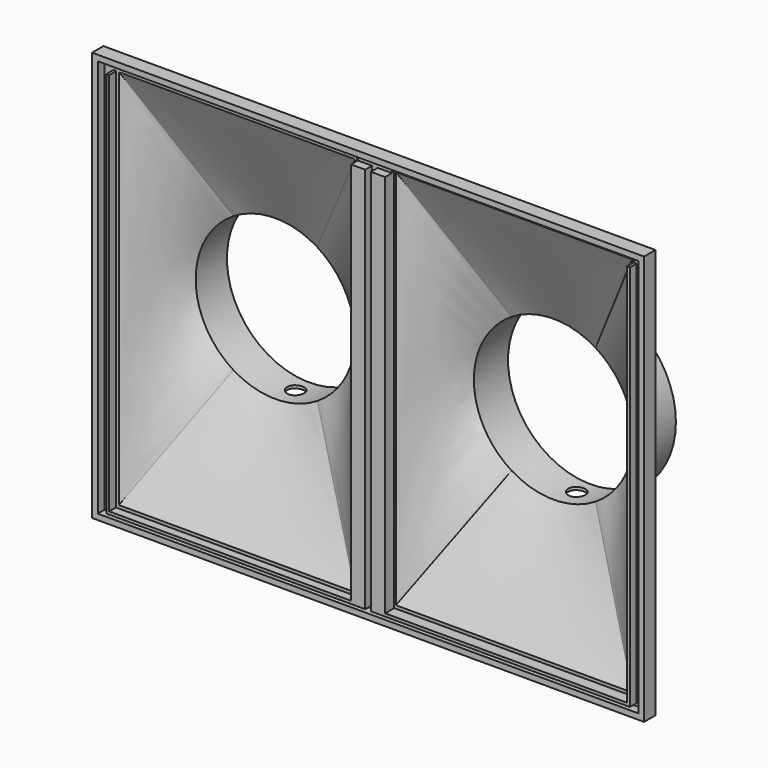
from build123d import *

# Parameters (mm, degrees)
SKETCH015_AS_DRAWN_R                 = 3
EXTRUDE011_DEPTH                     = 80
EXTRUDE011_ONTO_SKETCH015_ROLL_ANGLE = 90
SKETCH014_R                          = 30
SKETCH014_R_2                        = 29
EXTRUDE010_DEPTH                     = 15
CUT005_ROLL_ANGLE                    = 90
SKETCH013_AS_DRAWN_R                 = 3
EXTRUDE009_DEPTH                     = 80
EXTRUDE009_ONTO_SKETCH013_ROLL_ANGLE = 90
SKETCH012_R                          = 30
SKETCH012_R_2                        = 29
EXTRUDE008_DEPTH                     = 15
CUT004_ROLL_ANGLE                    = 90
SKETCH019_R                          = 28
SKETCH029_W                          = 83
SKETCH029_H                          = 134
SKETCH022_R                          = 30
SKETCH020_W                          = 85
SKETCH020_H                          = 136
SKETCH030_W                          = 83
SKETCH030_H                          = 134
SKETCH016_R                          = 30
SKETCH010_W                          = 85
SKETCH010_H                          = 136
SKETCH006_AS_DRAWN_W                 = 190
SKETCH006_AS_DRAWN_H                 = 140
SKETCH006_AS_DRAWN_W_2               = 91
SKETCH006_AS_DRAWN_H_2               = 136
EXTRUDE007_DEPTH                     = 100
EXTRUDE007_ONTO_SKETCH006_ROLL_ANGLE = 90
SKETCH009_AS_DRAWN_W                 = 194
SKETCH009_AS_DRAWN_H                 = 144
SKETCH009_AS_DRAWN_W_2               = 85
SKETCH009_AS_DRAWN_H_2               = 136
EXTRUDE012_DEPTH                     = 5
EXTRUDE012_ONTO_SKETCH009_ROLL_ANGLE = 90


with BuildPart() as extrude011:
    # Sketch015 as drawn → Extrude011 (new)
    with BuildSketch(Plane.XY):
        with Locations((0, 1)):
            Circle(SKETCH015_AS_DRAWN_R)
    extrude(amount=EXTRUDE011_DEPTH)


with BuildPart() as extrude011_1:
    # Extrude011 onto Sketch015 roll: moved
    add(extrude011.part.rotate(Axis((0, 0, 0), (1, 0, 0)), EXTRUDE011_ONTO_SKETCH015_ROLL_ANGLE))


with BuildPart() as extrude011_2:
    # Extrude011 onto Sketch015 placement: moved
    add(extrude011_1.part)


with BuildPart() as extrude011_3:
    # Extrude011 placement: moved
    add(extrude011_2.part.moved(Location((0, 40, -85))))


with BuildPart() as obj1:
    # Sketch014 → Extrude010 (new body)
    with BuildSketch(Plane.XY):
        Circle(SKETCH014_R)
        Circle(SKETCH014_R_2, mode=Mode.SUBTRACT)
    extrude(amount=EXTRUDE010_DEPTH)


with BuildPart() as obj1_1:
    # Extrude010 placement: moved
    add(obj1.part.moved(Location((0, 0, -90))))

    # Cut005: cut Extrude011
    add(extrude011_3.part, mode=Mode.SUBTRACT)


with BuildPart() as obj1_2:
    # Cut005 roll: moved
    add(obj1_1.part.rotate(Axis((0, 0, 0), (1, 0, 0)), CUT005_ROLL_ANGLE))


with BuildPart() as obj1_3:
    # Cut005 placement: moved
    add(obj1_2.part.moved(Location((146, -151, -75))))


with BuildPart() as extrude009:
    # Sketch013 as drawn → Extrude009 (new)
    with BuildSketch(Plane.XY):
        with Locations((0, 1)):
            Circle(SKETCH013_AS_DRAWN_R)
    extrude(amount=EXTRUDE009_DEPTH)


with BuildPart() as extrude009_1:
    # Extrude009 onto Sketch013 roll: moved
    add(extrude009.part.rotate(Axis((0, 0, 0), (1, 0, 0)), EXTRUDE009_ONTO_SKETCH013_ROLL_ANGLE))


with BuildPart() as extrude009_2:
    # Extrude009 onto Sketch013 placement: moved
    add(extrude009_1.part)


with BuildPart() as extrude009_3:
    # Extrude009 placement: moved
    add(extrude009_2.part.moved(Location((0, 39, -80))))


with BuildPart() as obj2:
    # Sketch012 → Extrude008 (new body)
    with BuildSketch(Plane.XY):
        Circle(SKETCH012_R)
        Circle(SKETCH012_R_2, mode=Mode.SUBTRACT)
    extrude(amount=EXTRUDE008_DEPTH)


with BuildPart() as obj2_1:
    # Extrude008 placement: moved
    add(obj2.part.moved(Location((0, 0, -85))))

    # Cut004: cut Extrude009
    add(extrude009_3.part, mode=Mode.SUBTRACT)


with BuildPart() as obj2_2:
    # Cut004 roll: moved
    add(obj2_1.part.rotate(Axis((0, 0, 0), (1, 0, 0)), CUT004_ROLL_ANGLE))


with BuildPart() as obj2_3:
    # Cut004 placement: moved
    add(obj2_2.part.moved(Location((48, -147, -75))))


with BuildPart() as loft003:
    # Sketch019 → Loft003 section 0
    with BuildSketch(Plane.XZ):
        with Locations((50, -75)):
            Circle(SKETCH019_R)
    # Sketch029 → Loft003 section 1
    with BuildSketch(Plane.XZ.offset(20)):
        with Locations((52.070605, -73.338478)):
            Rectangle(SKETCH029_W, SKETCH029_H)
    loft()


with BuildPart() as loft003_1:
    # Loft003 placement: moved
    add(loft003.part.moved(Location((-1, 0, 0))))


with BuildPart() as obj3:
    # Sketch022 → Loft002 section 0
    with BuildSketch(Plane.XZ):
        with Locations((50, -75)):
            Circle(SKETCH022_R)
    # Sketch020 → Loft002 section 1
    with BuildSketch(Plane.XZ.offset(20)):
        with Locations((51.171679, -73.419239)):
            Rectangle(SKETCH020_W, SKETCH020_H)
    loft()

    # Cut007: cut Loft003
    add(loft003_1.part, mode=Mode.SUBTRACT)


with BuildPart() as obj3_1:
    # Cut007 placement: moved
    add(obj3.part.moved(Location((96, -76, 0))))


with BuildPart() as loft001:
    # Sketch030 → Loft001 section 0
    with BuildSketch(Plane(origin=(-121, -20, 0), x_dir=(1, 0, 0), z_dir=(0, -1, 0))):
        with Locations((173.527864, -73.338478)):
            Rectangle(SKETCH030_W, SKETCH030_H)
    # Sketch019 → Loft001 section 1
    with BuildSketch(Plane.XZ):
        with Locations((50, -75)):
            Circle(SKETCH019_R)
    loft()


with BuildPart() as obj4:
    # Sketch016 → Loft section 0
    with BuildSketch(Plane.XZ):
        with Locations((50, -75)):
            Circle(SKETCH016_R)
    # Sketch010 → Loft section 1
    with BuildSketch(Plane.XZ.offset(20)):
        with Locations((52.151366, -73.419239)):
            Rectangle(SKETCH010_W, SKETCH010_H)
    loft()

    # Cut006: cut Loft001
    add(loft001.part, mode=Mode.SUBTRACT)


with BuildPart() as obj4_1:
    # Cut006 placement: moved
    add(obj4.part.moved(Location((-2, -77, 0))))


with BuildPart() as obj5:
    # Sketch006 as drawn → Extrude007 (new)
    with BuildSketch(Plane.XY):
        with Locations((100, -75)):
            Rectangle(SKETCH006_AS_DRAWN_W, SKETCH006_AS_DRAWN_H)
        with Locations((53.5, -76)):
            Rectangle(SKETCH006_AS_DRAWN_W_2, SKETCH006_AS_DRAWN_H_2, mode=Mode.SUBTRACT)
        with Locations((146.5, -76)):
            Rectangle(SKETCH006_AS_DRAWN_W_2, SKETCH006_AS_DRAWN_H_2, mode=Mode.SUBTRACT)
    extrude(amount=EXTRUDE007_DEPTH)


with BuildPart() as obj5_1:
    # Extrude007 onto Sketch006 roll: moved
    add(obj5.part.rotate(Axis((0, 0, 0), (1, 0, 0)), EXTRUDE007_ONTO_SKETCH006_ROLL_ANGLE))


with BuildPart() as obj5_2:
    # Extrude007 onto Sketch006 placement: moved
    add(obj5_1.part)


with BuildPart() as obj5_3:
    # Extrude007 placement: moved
    add(obj5_2.part.moved(Location((-1, -97, 1))))


with BuildPart() as obj6:
    # Sketch009 as drawn → Extrude012 (new)
    with BuildSketch(Plane.XY):
        with Locations((99, -74)):
            Rectangle(SKETCH009_AS_DRAWN_W, SKETCH009_AS_DRAWN_H)
        with Locations((50.5, -74)):
            Rectangle(SKETCH009_AS_DRAWN_W_2, SKETCH009_AS_DRAWN_H_2, mode=Mode.SUBTRACT)
        with Locations((147.5, -74)):
            Rectangle(SKETCH009_AS_DRAWN_W_2, SKETCH009_AS_DRAWN_H_2, mode=Mode.SUBTRACT)
    extrude(amount=EXTRUDE012_DEPTH)


with BuildPart() as obj6_1:
    # Extrude012 onto Sketch009 roll: moved
    add(obj6.part.rotate(Axis((0, 0, 0), (1, 0, 0)), EXTRUDE012_ONTO_SKETCH009_ROLL_ANGLE))


with BuildPart() as obj6_2:
    # Extrude012 onto Sketch009 placement: moved
    add(obj6_1.part)


with BuildPart() as obj6_3:
    # Extrude012 placement: moved
    add(obj6_2.part.moved(Location((0, -95, 0))))

    # Cut008: cut obj5
    add(obj5_3.part, mode=Mode.SUBTRACT)


with BuildPart() as obj6_4:
    # Cut008 placement: moved
    add(obj6_3.part.moved(Location((0, 0, 0.580761))))

    # Fusion001: union obj3, obj4
    add(obj3_1.part)
    add(obj4_1.part)

    # Fusion002: union obj1, obj2
    add(obj1_3.part)
    add(obj2_3.part)


solid = obj6_4.part
